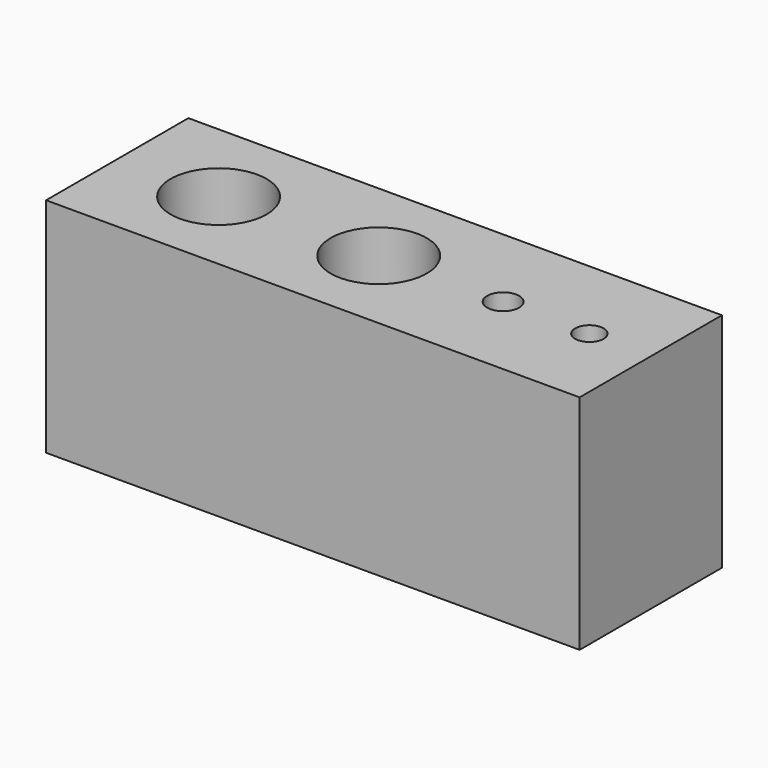
from build123d import *

# Parameters (mm, degrees)
F0_W     = 76.2
F0_H     = 25.4
F1_DEPTH = 31.75
F3_DEPTH = 25.4


with BuildPart() as f1:
    # F0 (on Top) → F1 (new body)
    with BuildSketch(Plane.XY):
        Rectangle(F0_W, F0_H)
    extrude(amount=F1_DEPTH)

    # F2 (on face) → F3 (cut)
    with BuildSketch(Plane.XY.offset(31.75)):
        with BuildLine():
            Line((-7.62, 0), (0, 0))
            Line((0, 0), (6.096, 0))
            ThreePointArc((6.096, 0), (-0.762, 6.858), (-7.62, 0))
        make_face()
        with BuildLine():
            Line((6.096, 0), (0, 0))
            Line((0, 0), (-7.62, 0))
            ThreePointArc((-7.62, 0), (-0.762, -6.858), (6.096, 0))
        make_face()
        with BuildLine():
            ThreePointArc((31.366032, 0), (29.334032, 2.032), (27.302032, 0))
            Line((27.302032, 0), (31.366032, 0))
        make_face()
        with BuildLine():
            Line((31.366032, 0), (27.302032, 0))
            ThreePointArc((27.302032, 0), (29.334032, -2.032), (31.366032, 0))
        make_face()
        with BuildLine():
            ThreePointArc((19.304, 0), (17.018, 2.286), (14.732, 0))
            Line((14.732, 0), (19.304, 0))
        make_face()
        with BuildLine():
            Line((19.304, 0), (14.732, 0))
            ThreePointArc((14.732, 0), (17.018, -2.286), (19.304, 0))
        make_face()
        with BuildLine():
            ThreePointArc((-30.48, 0), (-23.622, -6.858), (-16.764, 0))
            Line((-16.764, 0), (-30.48, 0))
        make_face()
        with BuildLine():
            Line((-30.48, 0), (-16.764, 0))
            ThreePointArc((-16.764, 0), (-23.622, 6.858), (-30.48, 0))
        make_face()
    extrude(amount=-F3_DEPTH, mode=Mode.SUBTRACT)


solid = f1.part
